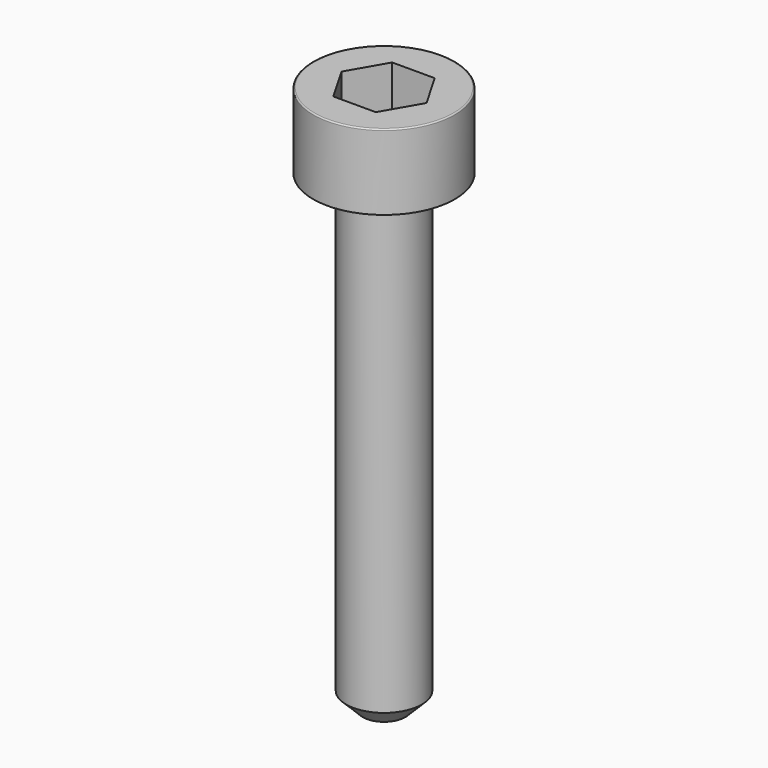
from build123d import *

# Parameters (mm, degrees)
POCKET_DEPTH = 1.56


with BuildPart() as part:
    # Sketch → Revolve (revolve)
    with BuildSketch(Plane.YZ):
        with BuildLine():
            Line((0.799, 0), (1.5, 0))
            Line((1.5, 0), (1.5, 1.57229))
            ThreePointArc((1.5, 1.57229), (1.491884, 1.591884), (1.47229, 1.6))
            Line((1.47229, 1.6), (0, 1.6))
            Line((0, -10), (0, 1.6))
            Line((0.45, -10), (0, -10))
            Line((0.8, -9.65), (0.45, -10))
            Line((0.8, -0.2), (0.8, -9.65))
            Line((0.799, 0), (0.8, -0.2))
        make_face()
    revolve(axis=Axis((0, 0, 0), (0, 0, 1)))

    # Sketch001 → Pocket (cut)
    with BuildSketch(Plane.XY.offset(1.6)):
        Polygon((0.900666, 0), (0.450333, 0.78), (-0.450333, 0.78), (-0.900666, 0), (-0.450333, -0.78), (0.450333, -0.78), align=None)
    extrude(amount=-POCKET_DEPTH, mode=Mode.SUBTRACT)


solid = part.part
